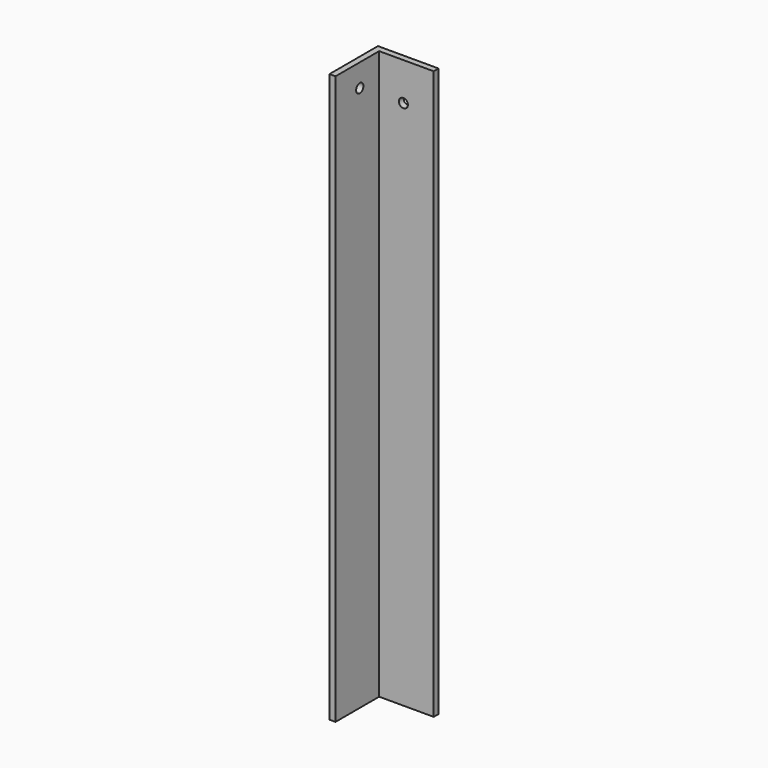
from build123d import *

# Parameters (mm, degrees)
CYLINDER001_R     = 6
CYLINDER001_DEPTH = 1300
CYLINDER002_R     = 6
CYLINDER002_DEPTH = 900
BOX003_W          = 80
BOX003_H          = 80
BOX003_DEPTH      = 750
BOX002_W          = 80
BOX002_H          = 80
BOX002_DEPTH      = 750


with BuildPart() as cylinder001:
    # Cylinder001 → Cylinder001 (new body)
    with BuildSketch(Plane(origin=(-10, 840, 720), x_dir=(0, 0, -1), z_dir=(1, 0, 0))):
        Circle(CYLINDER001_R)
    extrude(amount=CYLINDER001_DEPTH)


with BuildPart() as cylinder002:
    # Cylinder002 → Cylinder002 (new body)
    with BuildSketch(Plane(origin=(40, -10, 700), x_dir=(1, 0, 0), z_dir=(0, 1, 0))):
        Circle(CYLINDER002_R)
    extrude(amount=CYLINDER002_DEPTH)


with BuildPart() as cube003:
    # Box003 → Box003 (new body)
    with BuildSketch(Plane(origin=(8, 792, 0), x_dir=(1, 0, 0), z_dir=(0, 0, 1))):
        with Locations((40, 40)):
            Rectangle(BOX003_W, BOX003_H)
    extrude(amount=BOX003_DEPTH)


with BuildPart() as cut008:
    # Box002 → Box002 (new body)
    with BuildSketch(Plane(origin=(0, 800, 0), x_dir=(1, 0, 0), z_dir=(0, 0, 1))):
        with Locations((40, 40)):
            Rectangle(BOX002_W, BOX002_H)
    extrude(amount=BOX002_DEPTH)

    # Cut001: cut Cube003
    add(cube003.part, mode=Mode.SUBTRACT)

    # Cut007: cut Cylinder002
    add(cylinder002.part, mode=Mode.SUBTRACT)

    # Cut008: cut Cylinder001
    add(cylinder001.part, mode=Mode.SUBTRACT)


solid = cut008.part
